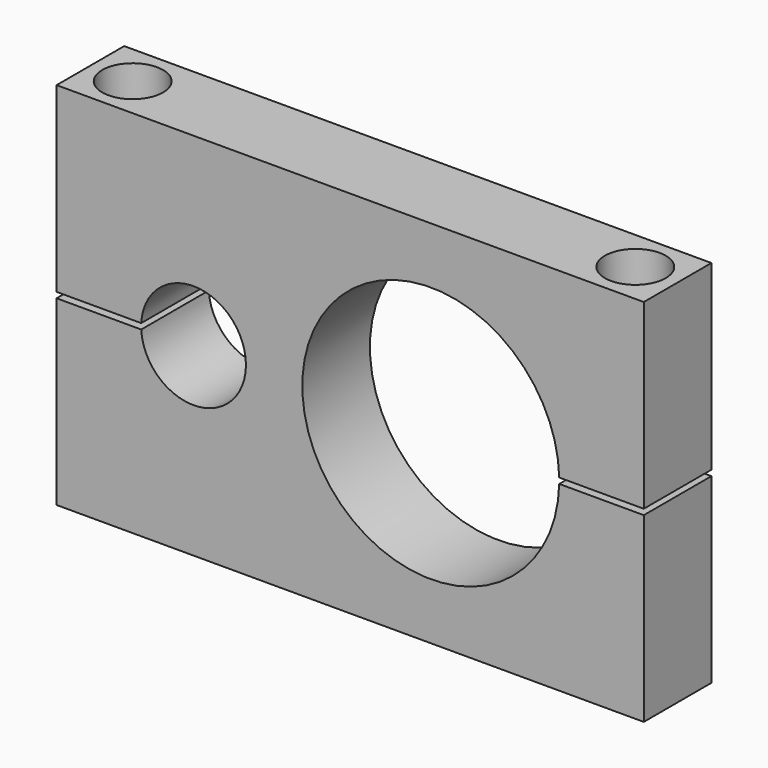
from build123d import *

# Parameters (mm, degrees)
F1_DEPTH       = 9.525
F3_D           = 4.1656
F3_DEPTH       = 38.1
F3_CBORE_D     = 6.858
F3_CBORE_DEPTH = 4.1656
F3_TIP         = 1.2514724973


with BuildPart() as f1:
    # F0 (on Front) → F1 (new body)
    with BuildSketch(Plane.XZ):
        with BuildLine():
            ThreePointArc((-12.6624526696, 0.3175), (-6.6066863612, 5.9033643331), (-0.8599937924, 0))
            ThreePointArc((-0.8599937924, 0), (-6.6066863612, -5.9033643331), (-12.6624526696, -0.3175))
            Line((-12.6624526696, -0.3175), (-22.1959937924, -0.3175))
            Line((-22.1959937924, -0.3175), (-22.1959937924, -20.828))
            Line((-22.1959937924, -20.828), (43.9710062076, -20.828))
            Line((43.9710062076, -20.828), (43.9710062076, -0.3175))
            Line((43.9710062076, -0.3175), (34.4425244293, -0.3175))
            ThreePointArc((34.4425244293, -0.3175), (5.4900062076, 0), (34.4425244293, 0.3175))
            Line((34.4425244293, 0.3175), (43.9710062076, 0.3175))
            Line((43.9710062076, 0.3175), (43.9710062076, 20.828))
            Line((43.9710062076, 20.828), (-22.1959937924, 20.828))
            Line((-22.1959937924, 20.828), (-22.1959937924, 0.3175))
            Line((-22.1959937924, 0.3175), (-12.6624526696, 0.3175))
        make_face()
    extrude(amount=F1_DEPTH)

    # F3
    with Locations(Plane.XY.offset(20.828)):
        with Locations((-17.4334937924, -4.7625), (39.2085062076, -4.7625)):
            CounterBoreHole(F3_D / 2, F3_CBORE_D / 2, F3_CBORE_DEPTH, depth=F3_DEPTH)
            with Locations((0, 0, -(F3_DEPTH + F3_TIP / 2))):  # 118° drill point
                Cone(0, F3_D / 2, F3_TIP, mode=Mode.SUBTRACT)


solid = f1.part
